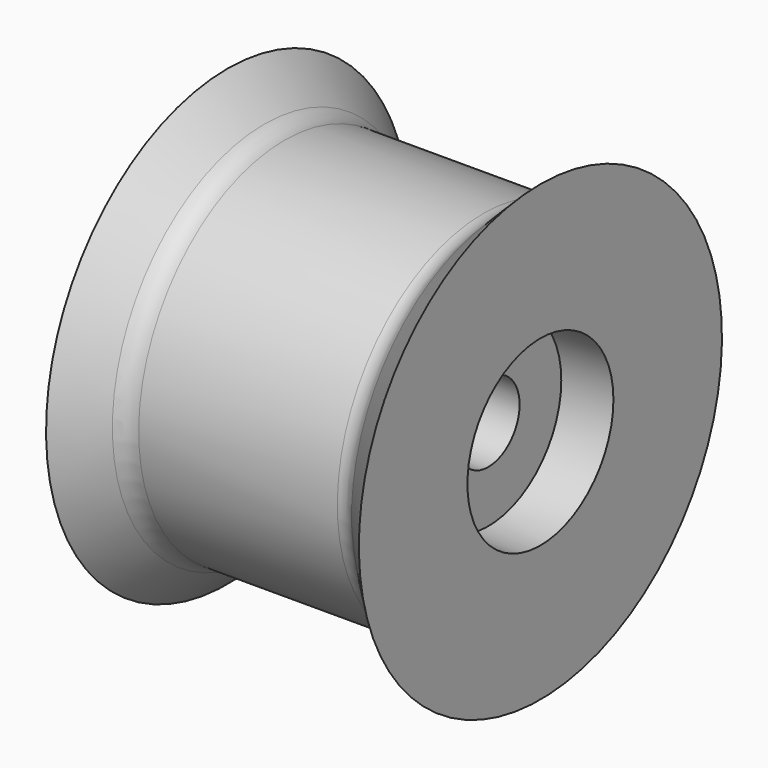
from build123d import *

# Parameters (mm, degrees)
F3_R     = 38.1
F3_R_2   = 25.4
F4_DEPTH = 304.801
F5_R     = 88.9
F5_R_2   = 38.1
F6_DEPTH = 50.8


with BuildPart() as f1:
    # F0 (on Front) → F1 (revolve)
    with BuildSketch(Plane.XZ):
        with BuildLine():
            Line((-152.4, 0), (0, 0))
            Line((0, 0), (0, 152.4))
            Line((0, 152.4), (-96.757379, 152.4))
            ThreePointArc((-96.757379, 152.4), (-107.418768, 153.949285), (-116.478976, 159.778363))
            Line((-116.478976, 159.778363), (-152.4, 195.699387))
            Line((-152.4, 195.699387), (-152.4, 0))
        make_face()
    revolve(axis=Axis((-127.974883, 0, -25.4), (-1, 0, 0)))

    # F2: F1 across face


with BuildPart() as f1_1:
    add(f1.part)
    add(f1.part.mirror(Plane(origin=(0, 0, -25.4), x_dir=(0, 1, 0), z_dir=(1, 0, 0))))

    # F3 (on face) → F4 (cut, through all)
    with BuildSketch(Plane.YZ.offset(152.4)):
        with Locations((0, -25.4)):
            Circle(F3_R)
        with Locations((0, -25.4)):
            Circle(F3_R_2, mode=Mode.SUBTRACT)
    extrude(amount=-F4_DEPTH, mode=Mode.SUBTRACT)

    # F5 (on face) → F6 (cut)
    with BuildSketch(Plane.YZ.offset(152.4)):
        with Locations((0, -25.4)):
            Circle(F5_R)
        with Locations((0, -25.4)):
            Circle(F5_R_2, mode=Mode.SUBTRACT)
    extrude(amount=-F6_DEPTH, mode=Mode.SUBTRACT)


solid = f1_1.part
